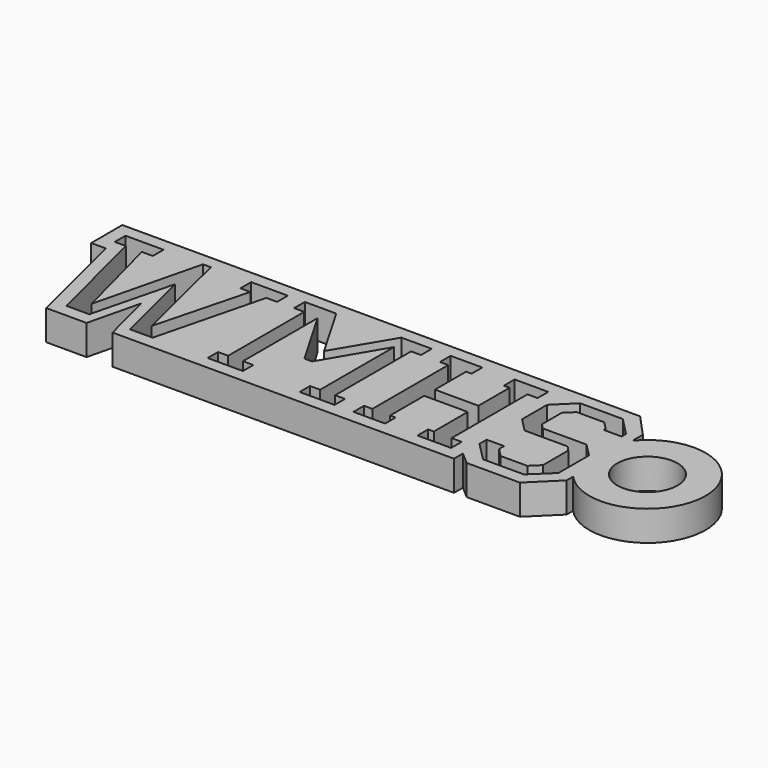
from build123d import *

# Parameters (mm, degrees)
F0_R     = 2.54
F1_DEPTH = 2.54


with BuildPart() as f1:
    # F0 (on Top) → F1 (new body)
    with BuildSketch(Plane.XY):
        with BuildLine():
            Line((-13.72965, -6.211935), (-10.352021, -6.211935))
            Line((-10.352021, -6.211935), (-7.658862, -6.211935))
            Line((-7.658862, -6.211935), (-2.500108, -6.211935))
            Line((-2.500108, -6.211935), (0.098243, -6.211935))
            Line((0.098243, -6.211935), (4.492023, -6.211935))
            Line((4.492023, -6.211935), (5.238309, -6.211935))
            Line((5.238309, -6.211935), (9.521089, -6.211935))
            Line((9.521089, -6.211935), (10.040419, -6.211935))
            Line((10.040419, -6.211935), (15.077152, -6.211935))
            Line((15.077152, -6.211935), (15.077152, -5.268871))
            Line((15.077152, -5.268871), (16.105427, -6.165902))
            Line((16.105427, -6.165902), (20.595906, -6.165902))
            Line((20.595906, -6.165902), (22.804618, -3.994572))
            Line((22.804618, -3.994572), (22.804618, -3.312337))
            ThreePointArc((22.804618, -3.312337), (31.332733, 0.11279), (22.656238, 3.142425))
            Line((22.656238, 3.142425), (22.656238, 4.226365))
            Line((22.656238, 4.226365), (22.302699, 4.611585))
            Line((22.302699, 4.611585), (20.876208, 6.165907))
            Line((20.876208, 6.165907), (15.069485, 6.165907))
            Line((15.069485, 6.165907), (10.040419, 6.165907))
            Line((10.040419, 6.165907), (9.521089, 6.165907))
            Line((9.521089, 6.165907), (5.238309, 6.165907))
            Line((5.238309, 6.165907), (4.492023, 6.165907))
            Line((4.492023, 6.165907), (1.025901, 6.165907))
            Line((1.025901, 6.165907), (-3.409077, 6.165907))
            Line((-3.409077, 6.165907), (-6.900202, 6.165907))
            Line((-6.900202, 6.165907), (-7.658862, 6.165907))
            Line((-7.658862, 6.165907), (-12.207904, 6.165907))
            Line((-12.207904, 6.165907), (-13.72965, 6.165907))
            Line((-13.72965, 6.165907), (-15.919671, 6.165907))
            Line((-15.919671, 6.165907), (-17.367226, 6.165907))
            Line((-17.367226, 6.165907), (-22.804618, 6.165907))
            Line((-22.804618, 6.165907), (-22.804618, 2.881158))
            Line((-22.804618, 2.881158), (-21.560945, 2.881158))
            Line((-21.560945, 2.881158), (-19.33411, -6.211935))
            Line((-19.33411, -6.211935), (-15.919671, -6.211935))
            Line((-15.919671, -6.211935), (-14.843066, -1.776392))
            Line((-14.843066, -1.776392), (-13.72965, -6.211935))
        make_face()
        Polygon((-11.094488, 5.107989), (-7.995496, 5.107989), (-7.995496, 3.976453), (-8.904465, 3.976453), (-11.206055, -5.13533), (-13.135563, -5.13533), (-14.824377, 1.730931), (-16.550569, -5.13533), (-18.480642, -5.13533), (-20.762977, 3.976453), (-21.691201, 3.976453), (-21.691201, 5.107989), (-18.480642, 5.107989), (-18.480642, 3.976453), (-19.408301, 3.976453), (-17.367226, -3.873531), (-15.158514, 5.107989), (-14.490804, 5.107989), (-12.300784, -3.873531), (-10.259141, 3.976453), (-11.094488, 3.976453), align=None, mode=Mode.SUBTRACT)
        Polygon((1.58261, 5.107989), (4.143582, 5.107989), (4.143582, 3.976453), (3.308802, 3.976453), (3.308802, -4.040601), (4.143582, -4.040601), (4.143582, -5.13533), (1.19297, -5.13533), (1.19297, -4.040601), (2.046439, -4.040601), (2.046439, 3.753313), (-0.885484, -1.219681), (-1.535071, -1.219681), (-4.466992, 3.827508), (-4.466992, -4.040601), (-3.594835, -4.040601), (-3.594835, -5.13533), (-6.564135, -5.13533), (-6.564135, -4.040601), (-5.710667, -4.040601), (-5.710667, 3.976453), (-6.564135, 3.976453), (-6.564135, 5.107989), (-3.910285, 5.107989), (-1.200932, 0.431753), align=None, mode=Mode.SUBTRACT)
        Polygon((11.135711, 5.107989), (13.974756, 5.107989), (13.974756, 3.976453), (13.121286, 3.976453), (13.121286, -4.021916), (13.974756, -4.021916), (13.974756, -5.13533), (11.135711, -5.13533), (11.135711, -4.021916), (11.618231, -4.021916), (11.618231, -0.440402), (7.943841, -0.440402), (7.943841, -4.021916), (8.40767, -4.021916), (8.40767, -5.13533), (5.735131, -5.13533), (5.735131, -4.021916), (6.44022, -4.021916), (6.44022, 3.976453), (5.735131, 3.976453), (5.735131, 5.107989), (8.40767, 5.107989), (8.40767, 3.976453), (7.943841, 3.976453), (7.943841, 0.691705), (11.618231, 0.691705), (11.618231, 3.976453), (11.135711, 3.976453), align=None, mode=Mode.SUBTRACT)
        Polygon((20.633285, 0.811923), (21.728014, -0.283368), (21.728014, -3.512052), (20.076579, -5.089298), (16.624759, -5.089298), (15.065635, -3.512052), (15.065635, -2.751466), (16.531877, -2.751466), (16.531877, -3.270793), (17.236968, -3.994572), (19.48249, -3.994572), (20.224959, -3.270793), (20.224959, -0.598818), (19.835318, -0.171801), (16.197742, -0.171801), (15.065635, 0.978994), (15.065635, 3.614156), (16.624759, 5.154023), (20.224959, 5.154023), (21.728014, 3.614156), (21.728014, 3.150327), (20.224959, 3.150327), (20.224959, 3.335517), (19.575371, 4.022482), (17.236968, 4.022482), (16.531877, 3.335517), (16.531877, 1.238374), (16.958896, 0.811923), align=None, mode=Mode.SUBTRACT)
        with Locations((26.426162, 0)):
            Circle(F0_R, mode=Mode.SUBTRACT)
    extrude(amount=F1_DEPTH)


solid = f1.part
